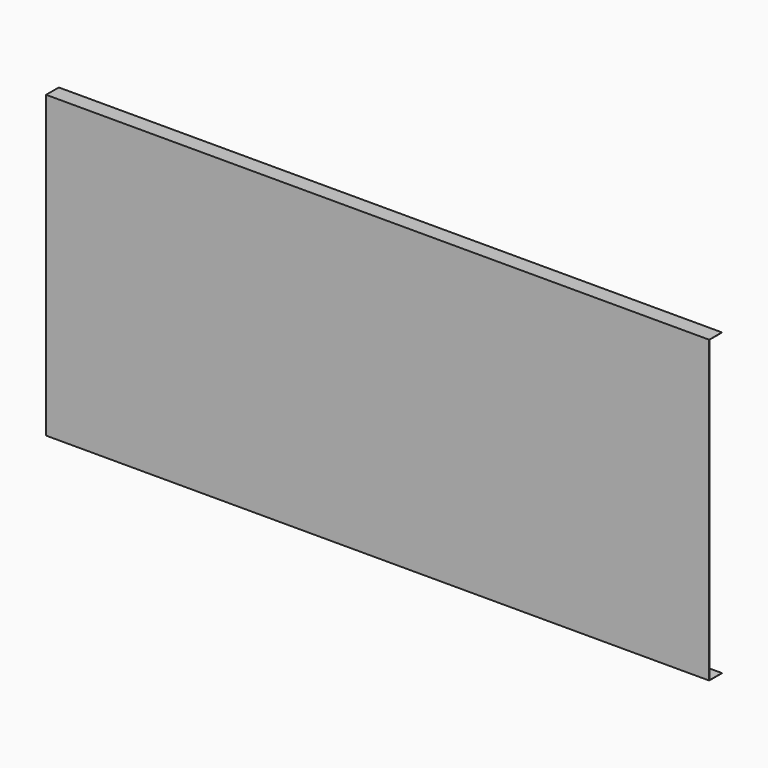
from build123d import *

# Parameters (mm, degrees)
F0_W     = 2000
F0_H     = 905
F1_DEPTH = 0.5
F2_W     = 2000
F2_H     = 0.5
F3_DEPTH = 47.5


with BuildPart() as f1:
    # F0 (on Front) → F1 (new body)
    with BuildSketch(Plane.XZ):
        with Locations((941.378251, 429.999953)):
            Rectangle(F0_W, F0_H)
    extrude(amount=F1_DEPTH)

    # F2 (on face) → F3 (join)
    with BuildSketch(Plane(origin=(0, 0, 0), x_dir=(-1, 0, 0), z_dir=(0, 1, 0))):
        with Locations((-941.378251, 882.249953)):
            Rectangle(F2_W, F2_H)
        with Locations((-941.378251, -22.250047)):
            Rectangle(F2_W, F2_H)
    extrude(amount=F3_DEPTH)


solid = f1.part
